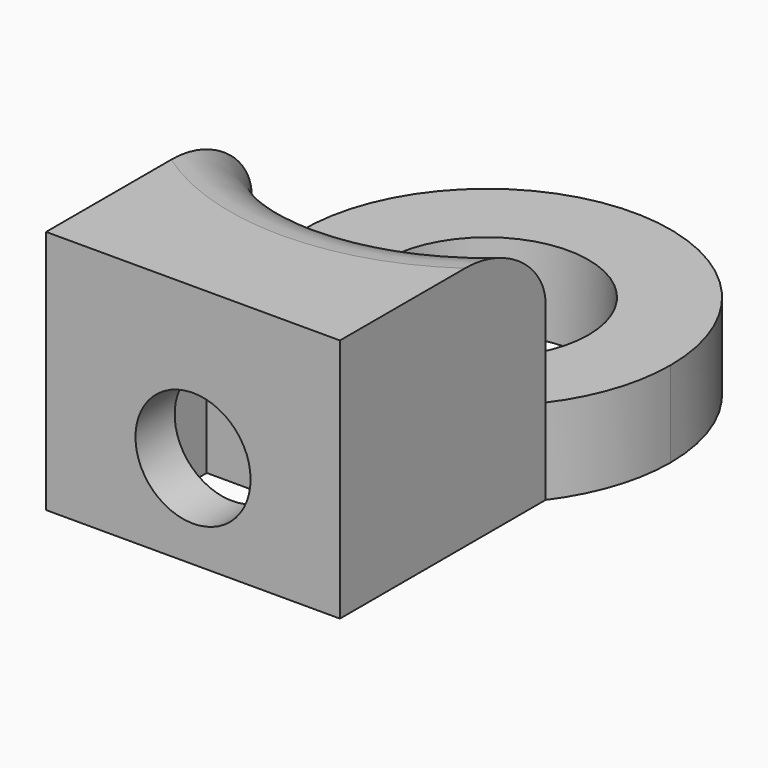
from build123d import *

# Parameters (mm, degrees)
F0_R     = 4.15
F1_DEPTH = 3.5
F2_DEPTH = 10
F3_R     = 2.35
F4_DEPTH = 12.5794738247
F5_W     = 7.2
F5_H     = 3.2
F6_DEPTH = 8
F7_R     = 3


with BuildPart() as f1:
    # F0 (on Top) → F1 (new body)
    with BuildSketch(Plane.XY):
        with BuildLine():
            ThreePointArc((6, -4.5), (7.1151247354, -2.3717082451), (7.5, 0))
            ThreePointArc((7.5, 0), (-2.3717082451, 7.1151247354), (-6, -4.5))
            ThreePointArc((-6, -4.5), (0, -7.5), (6, -4.5))
        make_face()
        Circle(F0_R, mode=Mode.SUBTRACT)
    extrude(amount=F1_DEPTH)

    # F0 (on Top) → F2 (join)
    with BuildSketch(Plane.XY):
        with BuildLine():
            ThreePointArc((6, -4.5), (0, -7.5), (-6, -4.5))
            Line((-6, -4.5), (-6, -15))
            Line((-6, -15), (6, -15))
            Line((6, -15), (6, -4.5))
        make_face()
    extrude(amount=F2_DEPTH)

    # F3 (on face) → F4 (cut, up to face)
    with BuildSketch(Plane.XZ.offset(15)):
        with Locations((0, 3.815)):
            Circle(F3_R)
    extrude(amount=-F4_DEPTH, mode=Mode.SUBTRACT)

    # F5 (on face) → F6 (cut)
    with BuildSketch(Plane.XY):
        with Locations((0, -11.4)):
            Rectangle(F5_W, F5_H)
    extrude(amount=F6_DEPTH, mode=Mode.SUBTRACT)

    # F7
    f7_edges = [f1.edges().sort_by_distance(p)[0] for p in [
        (0, -7.5, 10),
    ]]
    fillet(f7_edges, radius=F7_R)


solid = f1.part
